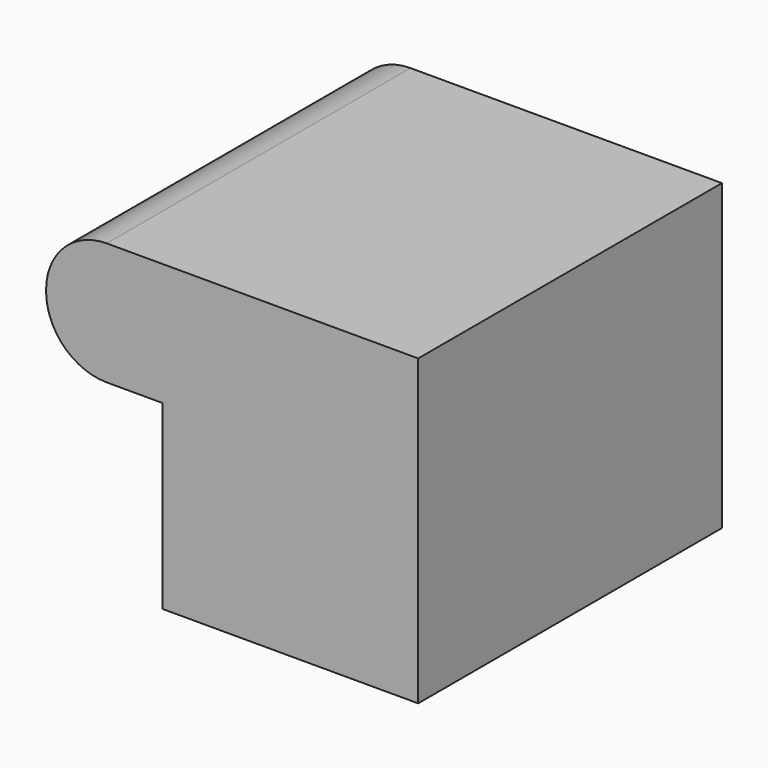
from build123d import *

# Parameters (mm, degrees)
F1_DEPTH = 39.72546


with BuildPart() as f1:
    # F0 (on Front) → F1 (new body)
    with BuildSketch(Plane.XZ):
        with BuildLine():
            ThreePointArc((-40.263645, 43.889984), (-44.753773, 42.030112), (-46.613645, 37.539984))
            Line((-46.613645, 37.539984), (-46.613645, 37.431255))
            ThreePointArc((-46.613645, 37.431255), (-44.753773, 32.941127), (-40.263645, 31.081255))
            Line((-40.263645, 31.081255), (-34.409717, 31.081255))
            Line((-34.409717, 31.081255), (-34.409717, 12.113845))
            Line((-34.409717, 12.113845), (-7.67886, 12.113845))
            Line((-7.67886, 12.113845), (-7.67886, 31.081255))
            Line((-7.67886, 31.081255), (-7.67886, 43.889984))
            Line((-7.67886, 43.889984), (-40.263645, 43.889984))
        make_face()
    extrude(amount=F1_DEPTH)


solid = f1.part
